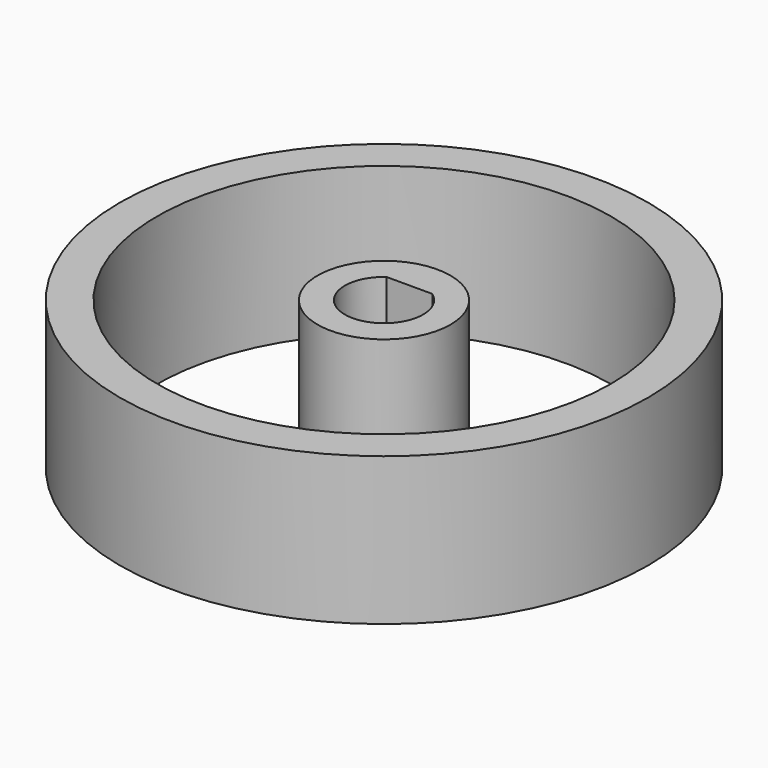
from build123d import *

# Parameters (mm, degrees)
F0_R     = 4.5
F1_DEPTH = 10
F2_R     = 2.65
F3_DEPTH = 8
F5_DEPTH = 8
F6_R     = 17.876008
F6_R_2   = 15.357495
F7_DEPTH = 10


with BuildPart() as f1:
    # F0 (on Top) → F1 (new body)
    with BuildSketch(Plane.XY):
        Circle(F0_R)
    extrude(amount=F1_DEPTH)

    # F2 (on face) → F3 (cut)
    with BuildSketch(Plane.XY.offset(10)):
        Circle(F2_R)
    extrude(amount=-F3_DEPTH, mode=Mode.SUBTRACT)

    # F4 (on face) → F5 (join, through all)
    with BuildSketch(Plane.XY.offset(2)):
        with BuildLine():
            ThreePointArc((1.549193, 2.15), (0, 2.65), (-1.549193, 2.15))
            Line((-1.549193, 2.15), (1.549193, 2.15))
        make_face()
    extrude(amount=F5_DEPTH)


with BuildPart() as f7:
    # F6 (on Top) → F7 (new body, through all)
    with BuildSketch(Plane.XY):
        Circle(F6_R)
        Circle(F6_R_2, mode=Mode.SUBTRACT)
    extrude(amount=F7_DEPTH)


solid = Compound([f1.part, f7.part])
